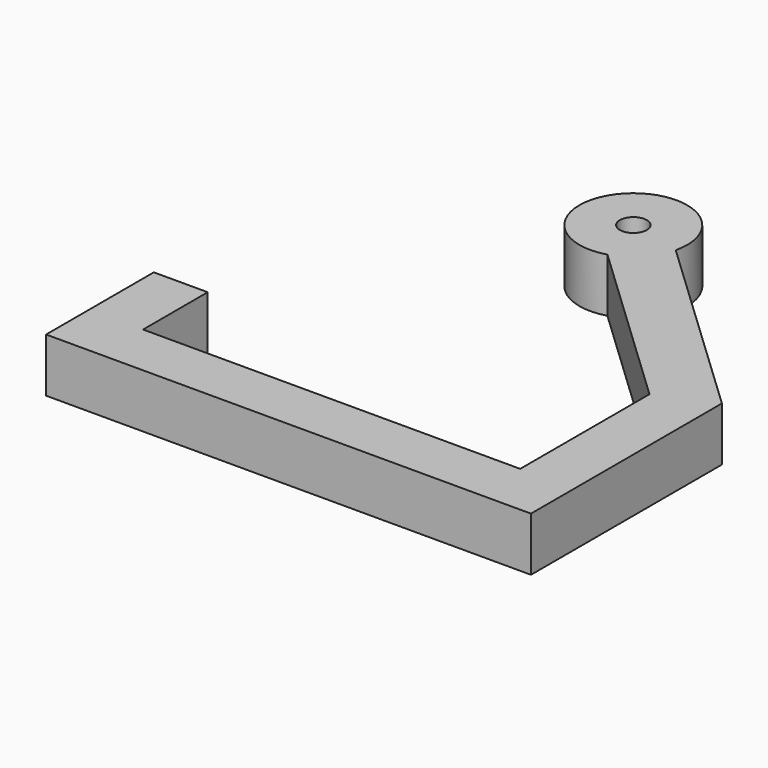
from build123d import *

# Parameters (mm, degrees)
F0_R     = 2.5
F1_DEPTH = 10


with BuildPart() as f1:
    # F0 (on Top) → F1 (new body)
    with BuildSketch(Plane.XY):
        with BuildLine():
            Line((-45, -40), (0, -40))
            Line((0, -40), (45, -40))
            Line((45, -40), (45, 0))
            Line((45, 0), (45, 4.305009))
            Line((45, 4.305009), (9.727105, 37.679777))
            ThreePointArc((9.727105, 37.679777), (-7.263809, 46.872924), (2.854181, 30.415969))
            Line((2.854181, 30.415969), (35, 0))
            Line((35, 0), (35, -30))
            Line((35, -30), (-35, -30))
            Line((-35, -30), (-35, -15))
            Line((-35, -15), (-45, -15))
            Line((-45, -15), (-45, -40))
        make_face()
        with Locations((0, 40)):
            Circle(F0_R, mode=Mode.SUBTRACT)
    extrude(amount=F1_DEPTH)


solid = f1.part
